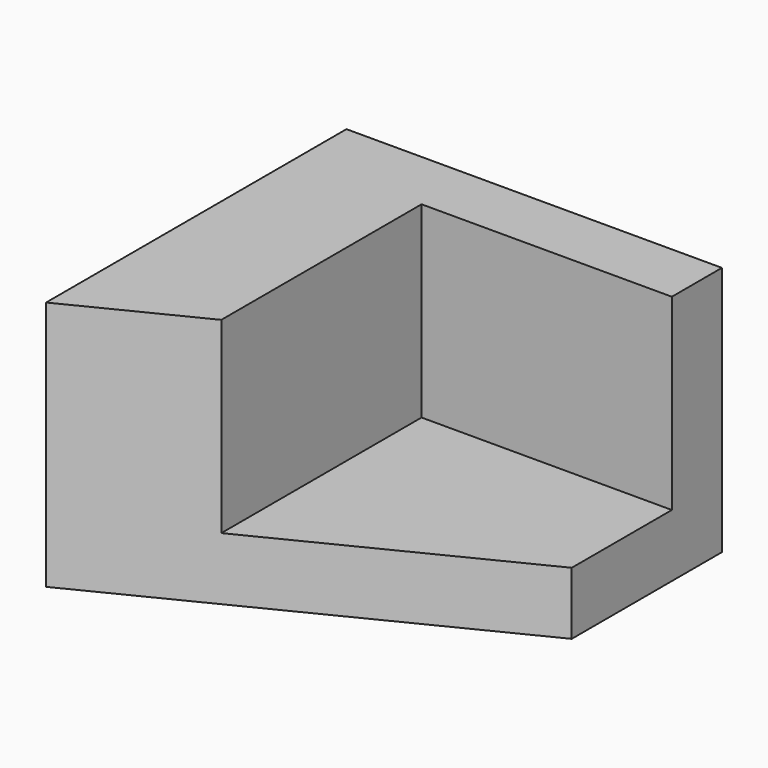
from build123d import *

# Parameters (mm, degrees)
F0_W     = 38.1
F0_H     = 25.4
F1_DEPTH = 38.1
F3_DEPTH = 101.6
F5_DEPTH = 19.05


with BuildPart() as f1:
    # F0 (on Front) → F1 (new body)
    with BuildSketch(Plane.XZ):
        with Locations((19.05, 12.7)):
            Rectangle(F0_W, F0_H)
    extrude(amount=F1_DEPTH)

    # F2 (on face) → F3 (cut)
    with BuildSketch(Plane.XY.offset(25.4)):
        Polygon((38.1, -38.1), (38.1, -19.05), (0, -38.1), align=None)
    extrude(amount=-F3_DEPTH, mode=Mode.SUBTRACT)

    # F4 (on face) → F5 (cut)
    with BuildSketch(Plane.XY.offset(25.4)):
        Polygon((38.1, -19.05), (38.1, -6.35), (12.7, -6.35), (12.7, -31.75), align=None)
    extrude(amount=-F5_DEPTH, mode=Mode.SUBTRACT)


solid = f1.part
